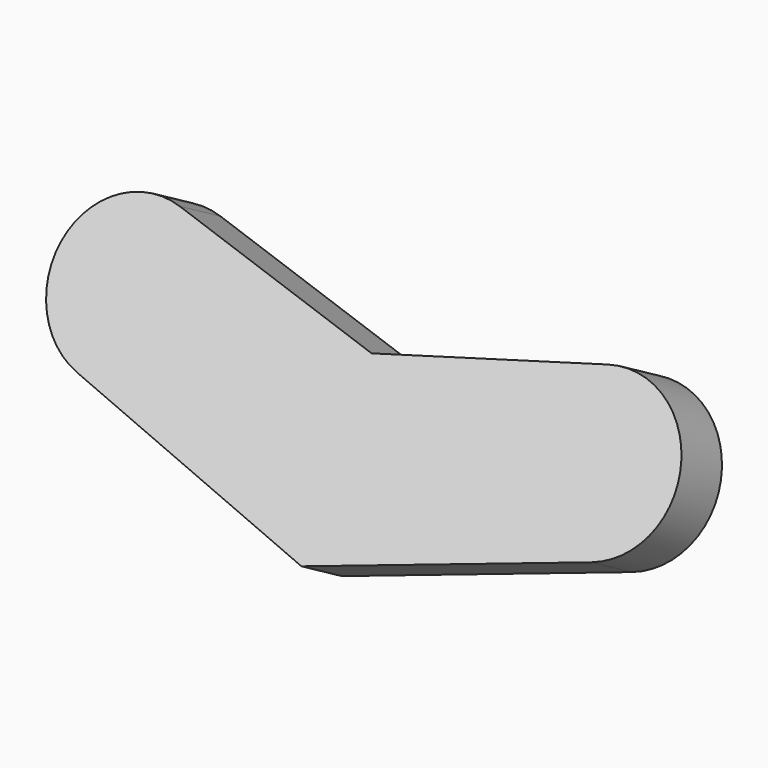
from build123d import *

# Parameters (mm, degrees)
F4_DEPTH = 15


with BuildPart() as f4:
    # F3 (on offset) → F4 (new body)
    with BuildSketch(Plane(origin=(0, -4.3301270189, 2.5), x_dir=(-1, 0, 0), z_dir=(0, 0.8660254038, -0.5))):
        with BuildLine():
            Line((0, 15), (-54.9459057506, 29.3508690068))
            ThreePointArc((-54.9459057506, 29.3508690068), (-79.2143447695, 15.5505815081), (-66.043389585, -9.0650843776))
            Line((-66.043389585, -9.0650843776), (0, -30))
            Line((0, -30), (0, 15))
        make_face()
    extrude(amount=F4_DEPTH)

    # F5: F4 across plane


with BuildPart() as f4_1:
    add(f4.part)
    add(f4.part.mirror(Plane.YZ))


with BuildPart() as f6_1:
    # F6: copy of F4
    add(f4_1.part)


solid = Compound([f4_1.part, f6_1.part])
